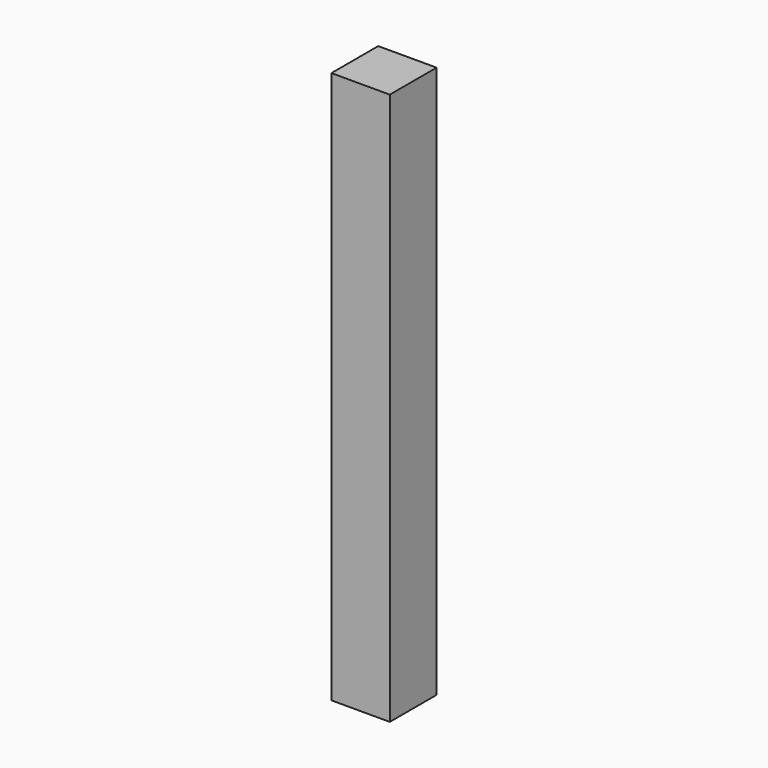
from build123d import *

# Parameters (mm, degrees)
F1_W     = 76.0731771588
F1_H     = 76.2532651424
F2_DEPTH = 720


with BuildPart() as f2:
    # F1 (on face) → F2 (new body)
    with BuildSketch(Plane.XY):
        with Locations((-38.0365885794, -38.1266325712)):
            Rectangle(F1_W, F1_H)
    extrude(amount=F2_DEPTH)


solid = f2.part
